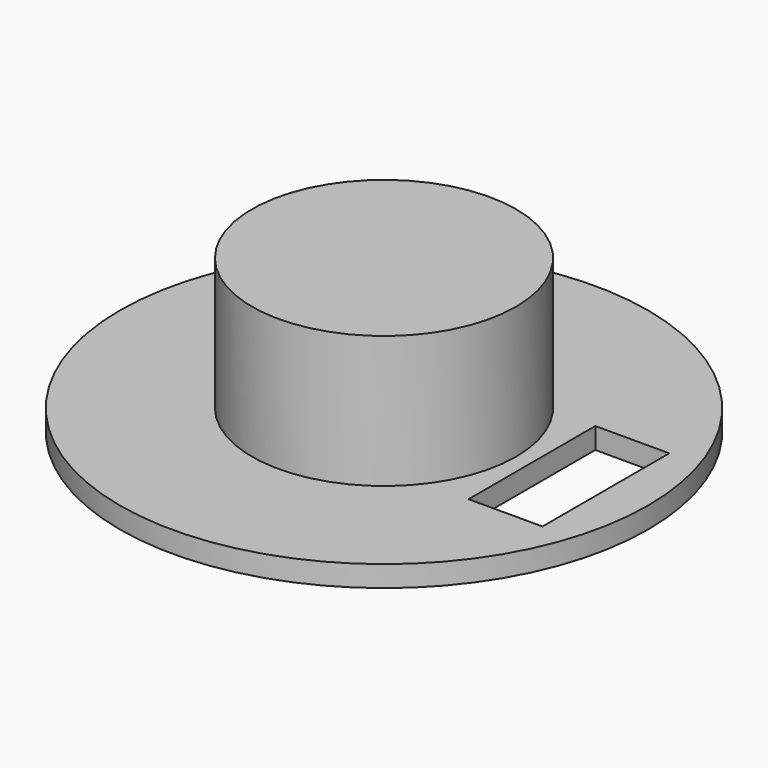
from build123d import *

# Parameters (mm, degrees)
F0_R     = 50
F1_DEPTH = 4
F2_R     = 25
F3_DEPTH = 25
F4_W     = 14
F4_H     = 30
F5_DEPTH = 5


with BuildPart() as f1:
    # F0 (on Top) → F1 (new body)
    with BuildSketch(Plane.XY):
        Circle(F0_R)
    extrude(amount=F1_DEPTH)

    # F2 (on face) → F3 (join)
    with BuildSketch(Plane.XY.offset(4)):
        Circle(F2_R)
    extrude(amount=F3_DEPTH)

    # F4 (on face) → F5 (cut)
    with BuildSketch(Plane(origin=(0, 0, 0), x_dir=(1, 0, 0), z_dir=(0, 0, -1))):
        with Locations((35, 0)):
            Rectangle(F4_W, F4_H)
    extrude(amount=-F5_DEPTH, mode=Mode.SUBTRACT)


solid = f1.part
